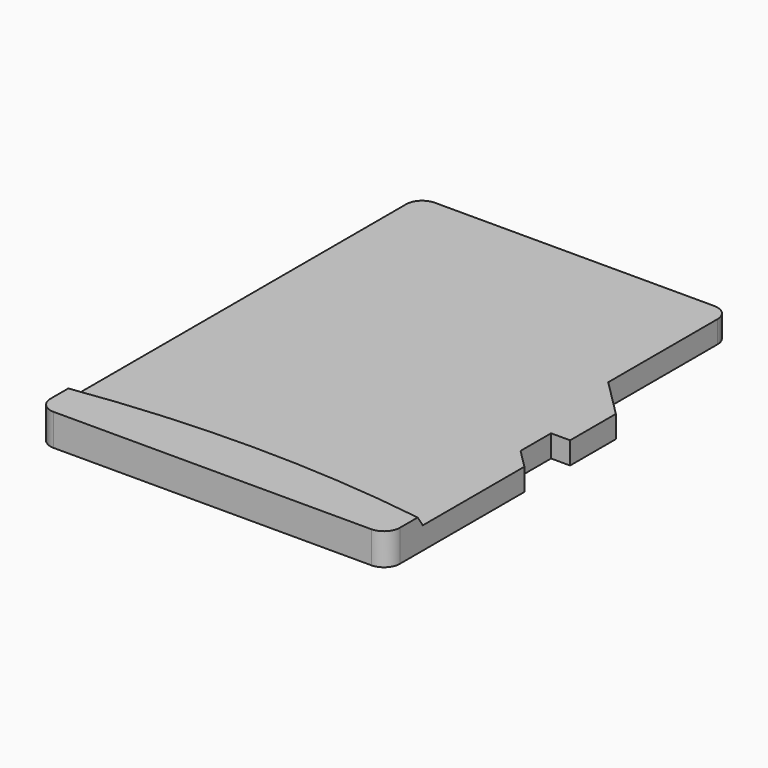
from build123d import *

# Parameters (mm, degrees)
BOX072_W         = 11
BOX072_H         = 15
BOX072_DEPTH     = 0.3
EXTRUDE017_DEPTH = 1


with BuildPart() as cone:
    # Cone → Cone (revolve)
    with BuildSketch(Plane(origin=(0, -36.4, 0.7), x_dir=(1, 0, 0), z_dir=(0, -1, 0))):
        Polygon((0, 0), (38.2, 0), (38, 0.3), (0, 0.3), align=None)
    revolve(axis=Axis((0, -36.4, 0.7), (0, 0, 1)))


with BuildPart() as cut018:
    # Box072 → Box072 (new body)
    with BuildSketch(Plane(origin=(-5.5, 0, 0.7), x_dir=(1, 0, 0), z_dir=(0, 0, 1))):
        with Locations((5.5, 7.5)):
            Rectangle(BOX072_W, BOX072_H)
    extrude(amount=BOX072_DEPTH)

    # Cut018: cut Cone
    add(cone.part, mode=Mode.SUBTRACT)


with BuildPart() as body005:
    # Sketch031 → Extrude017 (new body)
    with BuildSketch(Plane.XY):
        with BuildLine():
            Line((-5.5, 0.5), (-5.5, 14.5))
            ThreePointArc((-5, 15), (-5.353553, 14.853553), (-5.5, 14.5))
            Line((-5, 15), (3.8, 15))
            ThreePointArc((4.3, 14.5), (4.153553, 14.853553), (3.8, 15))
            Line((4.3, 14.5), (4.3, 10.2))
            Line((4.3, 10.2), (5.5, 9))
            Line((5.5, 9), (5.5, 7.2))
            Line((5.5, 7.2), (4.9, 7.2))
            Line((4.9, 7.2), (4.9, 6))
            Line((4.9, 6), (5.5, 5.4))
            Line((5.5, 5.4), (5.5, 0.5))
            ThreePointArc((5, 0), (5.353553, 0.146447), (5.5, 0.5))
            Line((5, 0), (-5, 0))
            ThreePointArc((-5.5, 0.5), (-5.353553, 0.146447), (-5, 0))
        make_face()
    extrude(amount=EXTRUDE017_DEPTH)

    # Cut019: cut Cut018
    add(cut018.part, mode=Mode.SUBTRACT)


solid = body005.part
